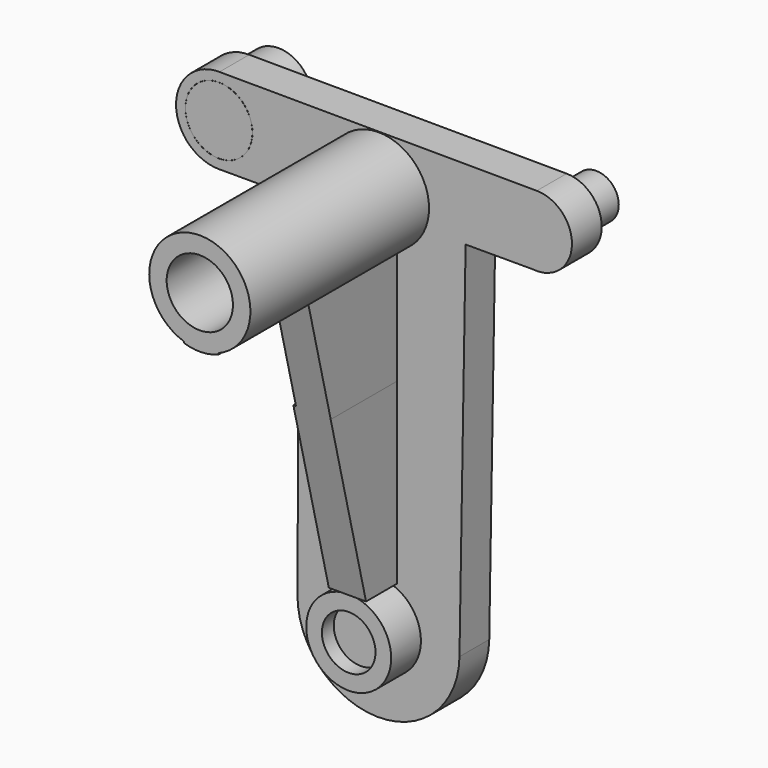
from build123d import *

# Parameters (mm, degrees)
F0_R      = 11.4646864728
F1_DEPTH  = 50.8
F2_R      = 7.6921826569
F2_R_2    = 11.4505878211
F3_DEPTH  = 12.7
F4_R      = 14.4912380629
F5_DEPTH  = 12.7
F6_R      = 9.1470525683
F7_DEPTH  = 5.08
F8_W      = 37.8754884005
F8_H      = 61.017408967
F9_DEPTH  = 6.35
F11_DEPTH = 25.4
F12_R     = 11.3055059993
F13_DEPTH = 76.2
F14_R     = 11.4251949319
F15_DEPTH = 25.399999693
F14_R_2   = 7.6921826569


with BuildPart() as f1:
    # F0 (on Front) → F1 (new body)
    with BuildSketch(Plane.XZ):
        with BuildLine():
            ThreePointArc((6.372153759, 39.2197284066), (14.2796308926, 45.5663535356), (17.2581595391, 55.25842309))
            ThreePointArc((17.2581595391, 55.25842309), (-10.0993134032, 69.2529913027), (-5.4381122177, 38.879442469))
            ThreePointArc((-5.4381122177, 38.879442469), (0.4970483176, 38.0074227234), (6.372153759, 39.2197284066))
        make_face()
        with Locations((0, 55.25842309)):
            Circle(F0_R, mode=Mode.SUBTRACT)
        with BuildLine():
            ThreePointArc((6.372153759, 39.2197284066), (0.4970483176, 38.0074227234), (-5.4381122177, 38.879442469))
            Line((-5.4381122177, 38.879442469), (-5.4381122177, 0))
            Line((-5.4381122177, 0), (6.372153759, -0.1903772354))
            Line((6.372153759, -0.1903772354), (6.372153759, 39.2197284066))
        make_face()
    extrude(amount=F1_DEPTH)

    # F2 (on Front) → F3 (join)
    with BuildSketch(Plane.XZ):
        with BuildLine():
            Line((55.0845707295, 48.4548578139), (52.8769489344, 48.4548578139))
            ThreePointArc((52.8769489344, 48.4548578139), (53.980759832, 48.4041581776), (55.0845707295, 48.4548578139))
        make_face()
        with BuildLine():
            Line((29.7309527334, 48.4548578139), (52.8769489344, 48.4548578139))
            Line((52.8769489344, 48.4548578139), (55.0845707295, 48.4548578139))
            ThreePointArc((55.0845707295, 48.4548578139), (66.0105020427, 60.970531616), (54.0354427804, 72.486434596))
            Line((54.0354427804, 72.486434596), (-54.2504357967, 72.9782005358))
            ThreePointArc((-54.2504357967, 72.9782005358), (-44.0257694858, 68.6254526192), (-39.8066245819, 58.3449355177))
            ThreePointArc((-39.8066245819, 58.3449355177), (-44.0929725749, 47.9967760339), (-54.4411320434, 43.710428004))
            Line((-54.4411320434, 43.710428004), (-27.0771056716, 43.710428004))
            Line((-27.0771056716, 43.710428004), (-27.6445374292, -75.4500131968))
            ThreePointArc((-27.6445374292, -75.4500131968), (0.0658210413, -47.9368824022), (27.6448508626, -75.5816549063))
            ThreePointArc((27.6448508626, -75.5816549063), (27.6438772461, -75.8136678655), (27.6409564655, -76.0456644823))
            Line((27.6409564655, -76.0456644823), (29.7309527334, 48.4548578139))
        make_face()
        with Locations((53.980759832, 60.4453584704)):
            Circle(F2_R, mode=Mode.SUBTRACT)
        with BuildLine():
            ThreePointArc((-27.6445374292, -75.4500131968), (-0.2978310248, -103.2249013852), (27.6409564655, -76.0456644823))
            ThreePointArc((27.6409564655, -76.0456644823), (27.6438772461, -75.8136678655), (27.6448508626, -75.5816549063))
            ThreePointArc((27.6448508626, -75.5816549063), (0.0658210413, -47.9368824022), (-27.6445374292, -75.4500131968))
        make_face()
        with BuildLine():
            ThreePointArc((-39.8066245819, 58.3449355177), (-44.0257694858, 68.6254526192), (-54.2504357967, 72.9782005358))
            ThreePointArc((-54.2504357967, 72.9782005358), (-69.0753289823, 58.4402856649), (-54.4411320434, 43.710428004))
            ThreePointArc((-54.4411320434, 43.710428004), (-44.0929725749, 47.9967760339), (-39.8066245819, 58.3449355177))
        make_face()
        with Locations((-54.4411320956, 58.3449355177)):
            Circle(F2_R_2, mode=Mode.SUBTRACT)
    extrude(amount=F3_DEPTH)

    # F4 (on face) → F5 (join)
    with BuildSketch(Plane.XZ.offset(12.7)):
        with Locations((0, -75.5816549063)):
            Circle(F4_R)
    extrude(amount=F5_DEPTH)

    # F6 (on face) → F7 (cut)
    with BuildSketch(Plane.XZ.offset(25.4)):
        with Locations((0, -75.5816549063)):
            Circle(F6_R)
    extrude(amount=-F7_DEPTH, mode=Mode.SUBTRACT)

    # F8 (on Right) → F9 (join, symmetric)
    with BuildSketch(Plane.YZ):
        with Locations((-31.5472260118, -30.5087044835)):
            Rectangle(F8_W, F8_H)
    extrude(amount=F9_DEPTH, both=True)

    # F10 (on face) → F11 (cut)
    with BuildSketch(Plane.YZ.offset(6.372153759)):
        Polygon((-50.99350214, -61.8221014738), (-25.8801653981, -61.2469762564), (-41.0246886913, -0.1903772354), (-50.8, -0.1903772354), (-50.8, 39.2197284066), align=None)
        Polygon((-50.8, -0.1903772354), (-41.0246886913, -0.1903772354), (-50.8, 39.2197284066), align=None)
    extrude(amount=-F11_DEPTH, mode=Mode.SUBTRACT)

    # F12 (on face) → F13 (join)
    with BuildSketch(Plane.XZ.offset(12.7)):
        with BuildLine():
            ThreePointArc((-5.4381122177, 38.4155431335), (0.4954319648, 37.566328333), (6.372153759, 38.7462661687))
            Line((6.372153759, 38.7462661687), (6.372153759, 39.2197284066))
            ThreePointArc((6.372153759, 39.2197284066), (-0.4970483176, 72.5094234565), (-5.4381122177, 38.879442469))
            Line((-5.4381122177, 38.879442469), (-5.4381122177, 38.4155431335))
        make_face()
        with Locations((0, 55.25842309)):
            Circle(F12_R, mode=Mode.SUBTRACT)
    extrude(amount=F13_DEPTH)

    # F14 (on face) → F15, piece 2 (join)
    with BuildSketch(Plane.XZ.offset(12.7)):
        with Locations((53.980759832, 60.4453584704)):
            Circle(F14_R_2)
    extrude(amount=-F15_DEPTH)


with BuildPart() as f15:
    # F14 (on face) → F15 (new body)
    with BuildSketch(Plane.XZ.offset(12.7)):
        with Locations((-54.4411320956, 58.3449355177)):
            Circle(F14_R)
    extrude(amount=-F15_DEPTH)


solid = Compound([f1.part, f15.part])
